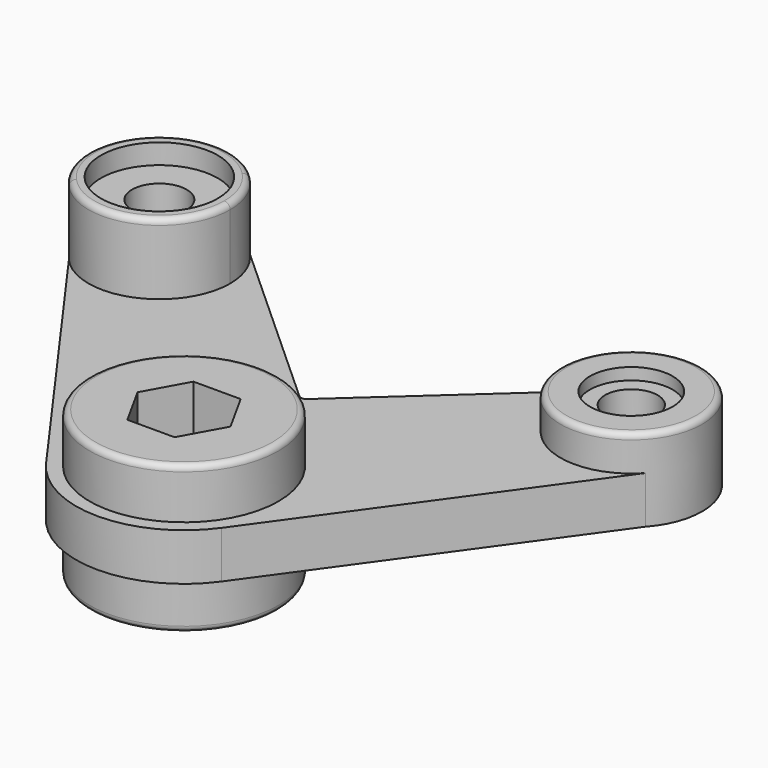
from build123d import *

# Parameters (mm, degrees)
F1_DEPTH      = 10.16
F2_R          = 15.24
F3_DEPTH      = 7.62
F4_R          = 1.27
F5_R          = 8.89
F6_DEPTH      = 2.54
F6_DEPTH_BACK = 25.4
F7_R          = 5.6612408529
F8_DEPTH      = 15.241
F9_R          = 1.27
F11_DEPTH     = 15.24
F12_R         = 1.27
F13_R         = 12.573
F14_DEPTH     = 4.318
F15_R         = 5.8846996184
F16_DEPTH     = 21.083
F17_R         = 20.32
F18_DEPTH     = 10.80698
F20_DEPTH     = 25.4
F21_R         = 20.32
F3_FACE_R     = 13.97
F3_FACE_R_2   = 8.89
F22_DEPTH     = 10.8069888
F23_R         = 1.27


with BuildPart() as f1:
    # F0 (on Top) → F1 (new body)
    with BuildSketch(Plane.XY):
        with BuildLine():
            Line((0, 31.3225206132), (-39.7978979795, 67.4076240142))
            ThreePointArc((-39.7978979795, 67.4076240142), (-61.191545749, 67.9425235548), (-62.027639853, 46.5585288613))
            Line((-62.027639853, 46.5585288613), (-18.8440847739, -13.5402782767))
            ThreePointArc((-18.8440847739, -13.5402782767), (0, -23.2042812165), (18.8440847739, -13.5402782767))
            Line((18.8440847739, -13.5402782767), (62.027639853, 46.5585288613))
            ThreePointArc((62.027639853, 46.5585288613), (61.191545749, 67.9425235548), (39.7978979795, 67.4076240142))
            Line((39.7978979795, 67.4076240142), (0, 31.3225206132))
        make_face()
    extrude(amount=F1_DEPTH)

    # F2 (on face) → F3 (join)
    with BuildSketch(Plane.XY.offset(10.16)):
        with Locations((50.7659645325, 56.8265505295)):
            Circle(F2_R)
    extrude(amount=F3_DEPTH)

    # F4
    f4_edges = [f1.edges().sort_by_distance(p)[0] for p in [
        (35.525965, 56.826551, 17.78),
    ]]
    fillet(f4_edges, radius=F4_R)

    # F5 (on face) → F6 (cut, two sides)
    with BuildSketch(Plane.XY.offset(17.78)) as f6_sk:
        with Locations((50.7659645325, 56.8265505295)):
            Circle(F5_R)
    extrude(amount=-F6_DEPTH, mode=Mode.SUBTRACT)
    extrude(f6_sk.sketch, amount=F6_DEPTH_BACK, mode=Mode.SUBTRACT)

    # F7 (on face) → F8 (cut, through all)
    with BuildSketch(Plane.XY.offset(15.24)):
        with Locations((50.7659645325, 56.8265505295)):
            Circle(F7_R)
    extrude(amount=-F8_DEPTH, mode=Mode.SUBTRACT)

    # F9
    f9_edges = [f1.edges().sort_by_distance(p)[0] for p in [
        (0, 31.322521, 5.08),
    ]]
    fillet(f9_edges, radius=F9_R)

    # F10 (on face) → F11 (join)
    with BuildSketch(Plane.XY.offset(10.16)):
        with BuildLine():
            ThreePointArc((-62.027639853, 46.5585288613), (-45.260073682, 42.6158937557), (-35.5259645325, 56.8265505295))
            ThreePointArc((-35.5259645325, 56.8265505295), (-36.6342460548, 62.5319981777), (-39.7978979795, 67.4076240142))
            ThreePointArc((-39.7978979795, 67.4076240142), (-61.191545749, 67.9425235548), (-62.027639853, 46.5585288613))
        make_face()
    extrude(amount=F11_DEPTH)

    # F12
    f12_edges = [f1.edges().sort_by_distance(p)[0] for p in [
        (-61.734031, 46.245477, 25.4),
    ]]
    fillet(f12_edges, radius=F12_R)

    # F13 (on face) → F14 (cut)
    with BuildSketch(Plane.XY.offset(25.4)):
        with Locations((-50.7659645325, 56.8265505295)):
            Circle(F13_R)
    extrude(amount=-F14_DEPTH, mode=Mode.SUBTRACT)

    # F15 (on face) → F16 (cut, through all)
    with BuildSketch(Plane.XY.offset(21.082)):
        with Locations((-50.7659645325, 56.8265505295)):
            Circle(F15_R)
    extrude(amount=-F16_DEPTH, mode=Mode.SUBTRACT)

    # F17 (on face) → F18 (join)
    with BuildSketch(Plane.XY.offset(10.16)):
        Circle(F17_R)
    extrude(amount=F18_DEPTH)

    # F19 (on face) → F20 (cut)
    with BuildSketch(Plane.XY.offset(20.96698)):
        Polygon((5.08, 8.89), (-5.08, 8.89), (-9.9986888497, 0), (-5.08, -8.89), (5.08, -8.89), (9.9986888497, 0), align=None)
    extrude(amount=-F20_DEPTH, mode=Mode.SUBTRACT)

    # F21 (on face) + F3_face (on face) → F22 (join)
    with BuildSketch(Plane(origin=(0, 0, 0), x_dir=(1, 0, 0), z_dir=(0, 0, -1))):
        Circle(F21_R)
        Polygon((5.08, 8.89), (9.9986888497, 0), (5.08, -8.89), (-5.08, -8.89), (-9.9986888497, 0), (-5.08, 8.89), align=None, mode=Mode.SUBTRACT)
    with BuildSketch(Plane(origin=(50.7659645325, 56.8265505295, 17.78), x_dir=(1, 0, 0), z_dir=(0, 0, 1))):
        Circle(F3_FACE_R)
        Circle(F3_FACE_R_2, mode=Mode.SUBTRACT)
    extrude(amount=F22_DEPTH, dir=(0, 0, -1))

    # F23
    f23_edges = [f1.edges().sort_by_distance(p)[0] for p in [
        (-20.32, 0, 20.96698),
        (-20.32, 0, -10.806989),
    ]]
    fillet(f23_edges, radius=F23_R)


solid = f1.part
